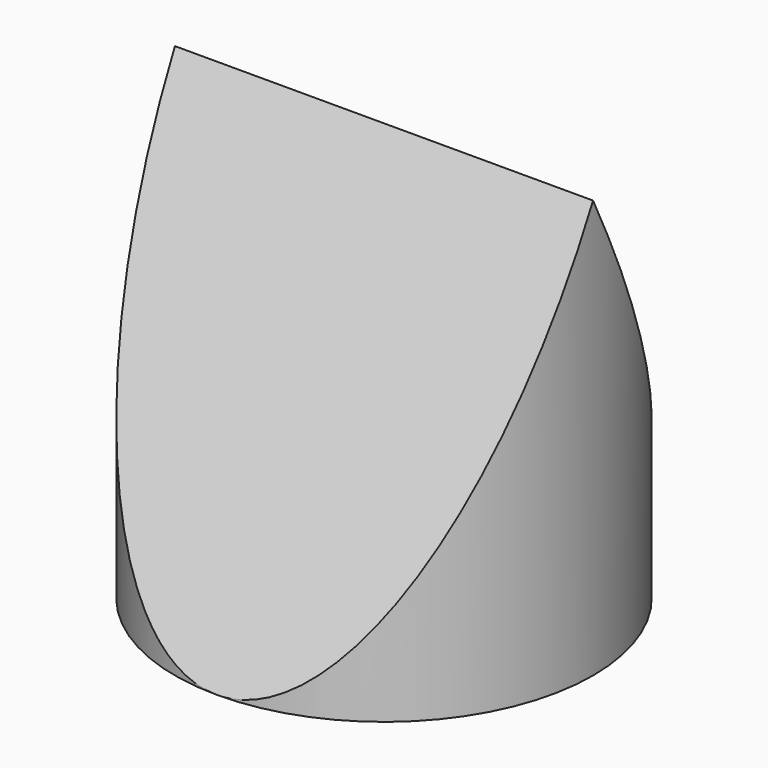
from build123d import *

# Parameters (mm, degrees)
F0_R     = 25.4
F1_DEPTH = 50.8
F3_DEPTH = 25.4


with BuildPart() as f1:
    # F0 (on Top) → F1 (new body)
    with BuildSketch(Plane.XY):
        Circle(F0_R)
    extrude(amount=F1_DEPTH)

    # F2 (on Right) → F3 (cut, symmetric)
    with BuildSketch(Plane.YZ):
        Polygon((-25.4, 50.8), (-25.4, 0), (0, 50.8), align=None)
        Polygon((0, 50.8), (25.4, 0), (25.4, 50.8), align=None)
    extrude(amount=F3_DEPTH, both=True, mode=Mode.SUBTRACT)


solid = f1.part
